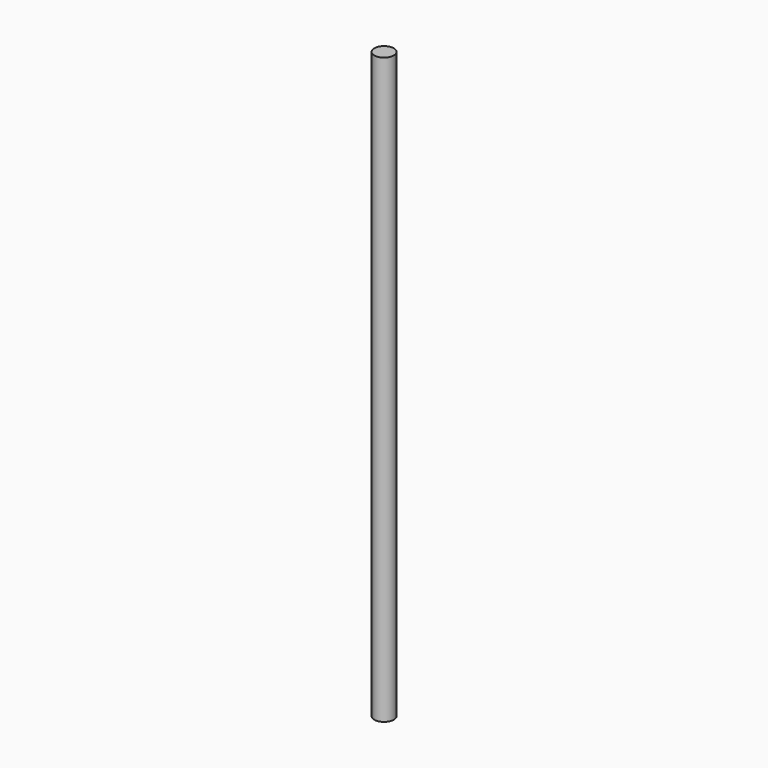
from build123d import *

# Parameters (mm, degrees)
SKETCH_R  = 4
PAD_DEPTH = 240


with BuildPart() as part:
    # Sketch → Pad (new body)
    with BuildSketch(Plane.XY):
        Circle(SKETCH_R)
    extrude(amount=PAD_DEPTH)


solid = part.part
